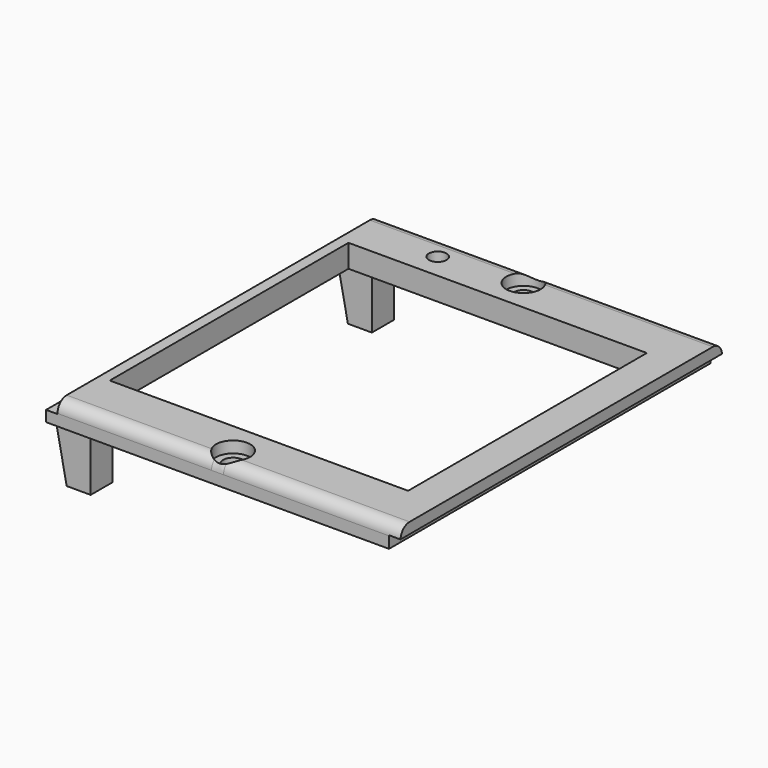
from build123d import *

# Parameters (mm, degrees)
SKETCH077_W          = 62
SKETCH077_H          = 70.3
SKETCH077_R          = 1.75
SKETCH077_R_2        = 1.55
SKETCH077_W_2        = 52.2
SKETCH077_H_2        = 52.2
PAD021_DEPTH         = 4
FILLET009_R          = 2
SKETCH078_W          = 2
SKETCH078_H          = 2.1
POCKET050_DEPTH      = 35.151
POCKET050_DEPTH_BACK = 35.151
SKETCH079_R          = 3
POCKET028_DEPTH      = 2.001
SKETCH081_W          = 4.202
SKETCH081_H          = 4.8
PAD023_DEPTH         = 10
CHAMFER003_SIZE2     = 9.99
CHAMFER003_SIZE      = 1.99


with BuildPart() as part:
    # Sketch077 → Pad021 (new body)
    with BuildSketch(Plane.XY):
        with Locations((1, 0)):
            Rectangle(SKETCH077_W, SKETCH077_H)
        with Locations((0, 31.75)):
            Circle(SKETCH077_R, mode=Mode.SUBTRACT)
        with Locations((0, -31.75)):
            Circle(SKETCH077_R, mode=Mode.SUBTRACT)
        with Locations((-14, 30.5)):
            Circle(SKETCH077_R_2, mode=Mode.SUBTRACT)
        Rectangle(SKETCH077_W_2, SKETCH077_H_2, mode=Mode.SUBTRACT)
    extrude(amount=PAD021_DEPTH)

    # Fillet009
    fillet009_edges = [part.edges().sort_by_distance(p)[0] for p in [
        (1, 35.15, 4),
        (1, -35.15, 4),
    ]]
    fillet(fillet009_edges, radius=FILLET009_R)

    # Sketch078 → Pocket050 (cut, two sides)
    with BuildSketch(Plane.XZ) as pocket050_sk:
        with Locations((-29, 2.95)):
            Rectangle(SKETCH078_W, SKETCH078_H)
        with Locations((31, 1.05)):
            Rectangle(SKETCH078_W, SKETCH078_H)
    extrude(amount=-POCKET050_DEPTH, mode=Mode.SUBTRACT)
    extrude(pocket050_sk.sketch, amount=POCKET050_DEPTH_BACK, mode=Mode.SUBTRACT)

    # Sketch079 → Pocket028 (cut, through all)
    with BuildSketch(Plane.XY.offset(2)):
        with Locations((0, -31.75)):
            Circle(SKETCH079_R)
        with Locations((0, 31.75)):
            Circle(SKETCH079_R)
    extrude(amount=POCKET028_DEPTH, mode=Mode.SUBTRACT)

    # Sketch081 → Pad023 (join)
    with BuildSketch(Plane.XY):
        with Locations((-25.899, 30.75)):
            Rectangle(SKETCH081_W, SKETCH081_H)
        with Locations((-25.899, -30.75)):
            Rectangle(SKETCH081_W, SKETCH081_H)
    extrude(amount=-PAD023_DEPTH)

    # Chamfer003
    chamfer003_edges = [part.edges().sort_by_distance(p)[0] for p in [
        (-28, 30.75, 0),
        (-28, -30.75, 0),
    ]]
    chamfer003_side = part.faces().sort_by_distance((-29.075766, 0, 0))[0]
    chamfer(chamfer003_edges, length=CHAMFER003_SIZE, length2=CHAMFER003_SIZE2, reference=chamfer003_side)


with BuildPart() as part_1:
    # Body040 placement: moved
    add(part.part.moved(Location((0, 0, 46))))


solid = part_1.part
